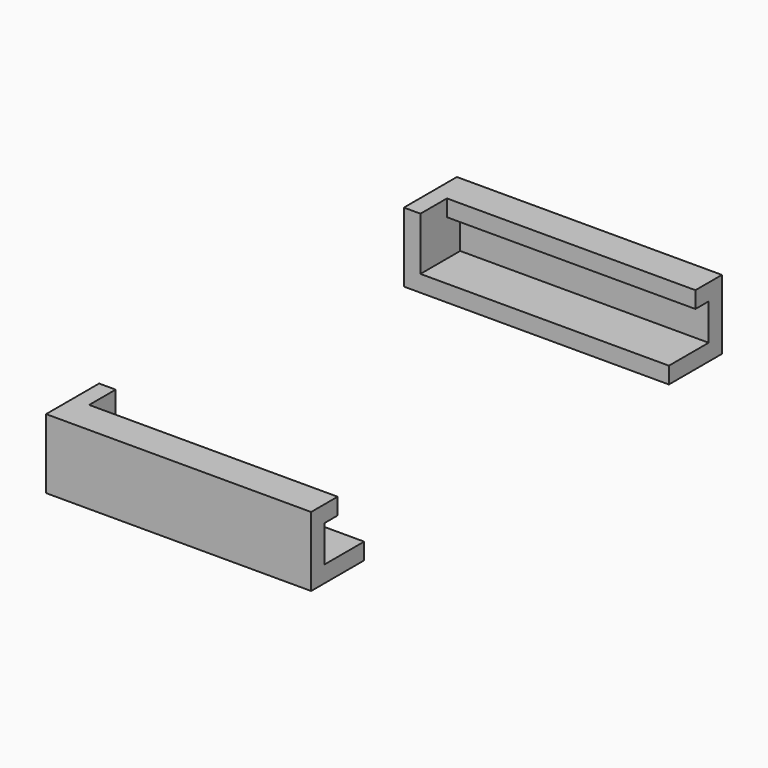
from build123d import *

# Parameters (mm, degrees)
F0_W      = 75
F0_H      = 155
F1_DEPTH  = 5
F2_W      = 75
F2_H      = 5
F3_DEPTH  = 11
F4_W      = 75
F4_H      = 5
F5_DEPTH  = 5
F5_FACE_W = 75
F5_FACE_H = 5
F6_DEPTH  = 5
F8_W      = 75
F8_H      = 5
F9_DEPTH  = 11
F10_W     = 75
F10_H     = 5
F11_DEPTH = 10
F12_W     = 5
F12_H     = 155
F13_DEPTH = 21
F14_W     = 211.5539
F14_H     = 115
F15_DEPTH = 5.001
F16_DEPTH = 25


with BuildPart() as f1:
    # F0 (on Top) → F1 (new body)
    with BuildSketch(Plane.XY):
        Rectangle(F0_W, F0_H)
    extrude(amount=F1_DEPTH)

    # F2 (on face) → F3 (join)
    with BuildSketch(Plane.XY.offset(5)):
        with Locations((0, -75)):
            Rectangle(F2_W, F2_H)
    extrude(amount=F3_DEPTH)


with BuildPart() as f5:
    # F4 (on face) → F5 (new body)
    with BuildSketch(Plane(origin=(0, -72.5, 0), x_dir=(-1, 0, 0), z_dir=(0, 1, 0))):
        with Locations((0, 18.5)):
            Rectangle(F4_W, F4_H)
    extrude(amount=F5_DEPTH)


with BuildPart() as f6:
    # F5_face (on face) → F6 (new body)
    with BuildSketch(Plane(origin=(0, -72.5, 18.5), x_dir=(-1, 0, 0), z_dir=(0, -1, 0))):
        Rectangle(F5_FACE_W, F5_FACE_H)
    extrude(amount=F6_DEPTH)

    # F7: union F5, F1
    add(f5.part)
    add(f1.part)

    # F8 (on face) → F9 (join)
    with BuildSketch(Plane.XY.offset(5)):
        with Locations((0, 75)):
            Rectangle(F8_W, F8_H)
    extrude(amount=F9_DEPTH)

    # F10 (on face) → F11 (join)
    with BuildSketch(Plane(origin=(0, 77.5, 0), x_dir=(-1, 0, 0), z_dir=(0, 1, 0))):
        with Locations((0, 18.5)):
            Rectangle(F10_W, F10_H)
    extrude(amount=-F11_DEPTH)

    # F12 (on face) → F13 (join, through all)
    with BuildSketch(Plane(origin=(0, 0, 0), x_dir=(1, 0, 0), z_dir=(0, 0, -1))):
        with Locations((-40, 0)):
            Rectangle(F12_W, F12_H)
    extrude(amount=-F13_DEPTH)

    # F14 (on face) → F15 (cut, through all)
    with BuildSketch(Plane.XY.offset(5)):
        Rectangle(F14_W, F14_H)
    extrude(amount=-F15_DEPTH, mode=Mode.SUBTRACT)

    # F14 (on face) → F16 (cut)
    with BuildSketch(Plane.XY.offset(5)):
        Rectangle(F14_W, F14_H)
    extrude(amount=F16_DEPTH, mode=Mode.SUBTRACT)


solid = f6.part
